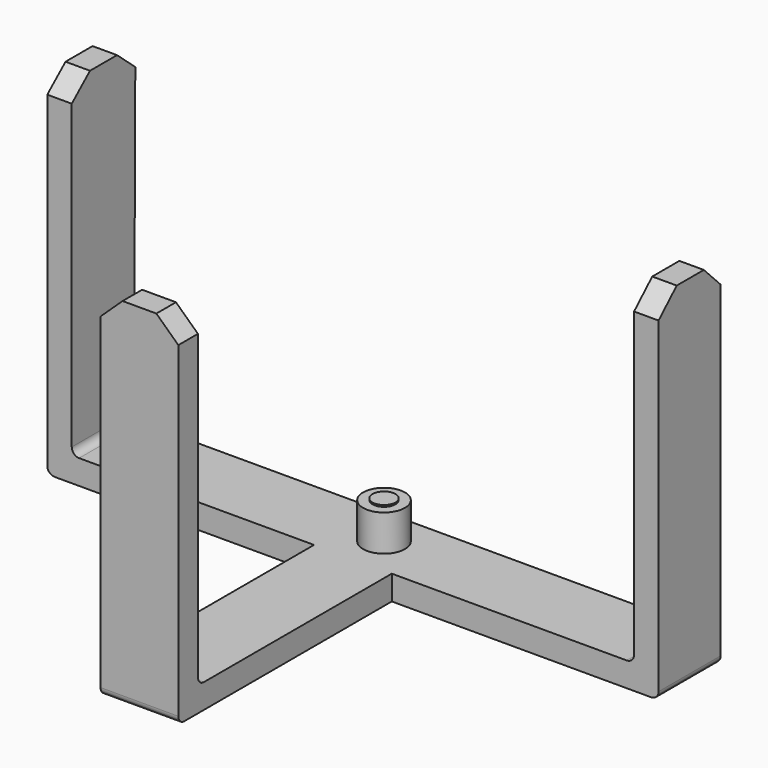
from build123d import *

# Parameters (mm, degrees)
F0_W      = 101.443342
F0_H      = 12.895348
F1_DEPTH  = 4.064
F2_W      = 12.895348
F2_H      = 4.064
F3_DEPTH  = 4.064
F4_W      = 12.895348
F4_H      = 4.064
F5_DEPTH  = 4.064
F6_W      = 12.9032
F6_H      = 44.474205
F7_DEPTH  = 4.064
F8_W      = 12.9032
F8_H      = 4.064
F9_DEPTH  = 4.064
F10_R     = 3.476261
F11_DEPTH = 6.0198
F12_R     = 1.22642
F13_R     = 1.900656
F14_DEPTH = 0.2794


with BuildPart() as f1:
    # F0 (on Top) → F1 (new body)
    with BuildSketch(Plane.XY):
        Rectangle(F0_W, F0_H)
    extrude(amount=F1_DEPTH)

    # F2 (on face) → F3 (join)
    with BuildSketch(Plane.YZ.offset(50.721671)):
        Polygon((-6.447674, 55.437263), (-6.447674, 4.064), (6.447674, 4.064), (6.447674, 55.437263), (2.940099, 59.015486), (-2.682819, 59.015486), align=None)
        with Locations((0, 2.032)):
            Rectangle(F2_W, F2_H)
    extrude(amount=-F3_DEPTH)

    # F4 (on face) → F5 (join)
    with BuildSketch(Plane(origin=(-50.721671, 0, 0), x_dir=(0, -1, 0), z_dir=(-1, 0, 0))):
        Polygon((-6.734233, 55.44746), (-6.447674, 0), (-6.447674, 4.064), (6.447674, 4.064), (6.447674, 55.44746), (2.663421, 58.72121), (-2.949979, 58.72121), align=None)
        with Locations((0, 2.032)):
            Rectangle(F4_W, F4_H)
    extrude(amount=-F5_DEPTH)

    # F6 (on Top) → F7 (join)
    with BuildSketch(Plane.XY):
        with Locations((0, -28.486697)):
            Rectangle(F6_W, F6_H)
    extrude(amount=F7_DEPTH)

    # F8 (on face) → F9 (join)
    with BuildSketch(Plane.XZ.offset(50.7238)):
        Polygon((-6.4516, 55.4482), (-6.4516, 4.064), (6.4516, 4.064), (6.4516, 55.4482), (2.8067, 58.876424), (-2.8067, 58.876424), align=None)
        with Locations((0, 2.032)):
            Rectangle(F8_W, F8_H)
    extrude(amount=-F9_DEPTH)

    # F10 (on face) → F11 (join)
    with BuildSketch(Plane.XY.offset(4.064)):
        Circle(F10_R)
    extrude(amount=F11_DEPTH)

    # F12
    f12_edges = [f1.edges().sort_by_distance(p)[0] for p in [
        (-46.657671, 0, 4.064),
        (46.657671, 0, 4.064),
        (50.721671, 0, 0),
        (-50.721671, 0, 0),
        (0, -50.7238, 0),
        (0, -46.6598, 4.064),
    ]]
    fillet(f12_edges, radius=F12_R)

    # F13 (on face) → F14 (join)
    with BuildSketch(Plane.XY.offset(10.0838)):
        Circle(F13_R)
    extrude(amount=F14_DEPTH)


solid = f1.part
